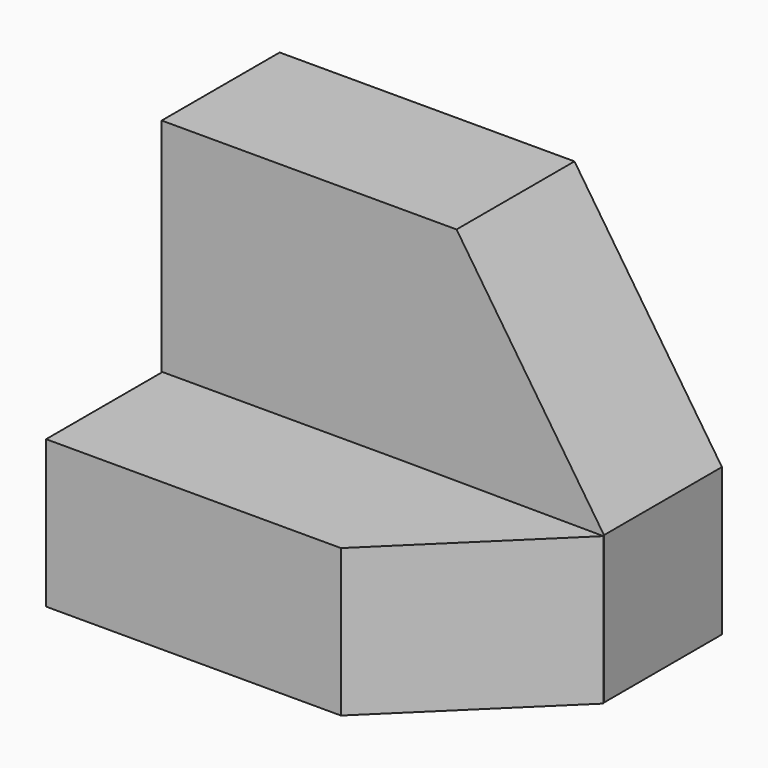
from build123d import *

# Parameters (mm, degrees)
F0_W     = 38.1
F0_H     = 12.7
F1_DEPTH = 12.7
F3_DEPTH = 12.7


with BuildPart() as f1:
    # F0 (on Front) → F1 (new body)
    with BuildSketch(Plane.XZ):
        Polygon((-50.529788, 0), (-12.429788, 0), (-25.129788, 19.05), (-50.529788, 19.05), align=None)
        with Locations((-31.479788, -6.35)):
            Rectangle(F0_W, F0_H)
    extrude(amount=F1_DEPTH)


with BuildPart() as f3:
    # F2 (on Top) → F3 (new body)
    with BuildSketch(Plane.XY):
        Polygon((-12.366549, -12.840229), (-50.46529, -12.530484), (-50.46529, -25.230484), (-25.06529, -25.230484), align=None)
    extrude(amount=-F3_DEPTH)


solid = Compound([f1.part, f3.part])
